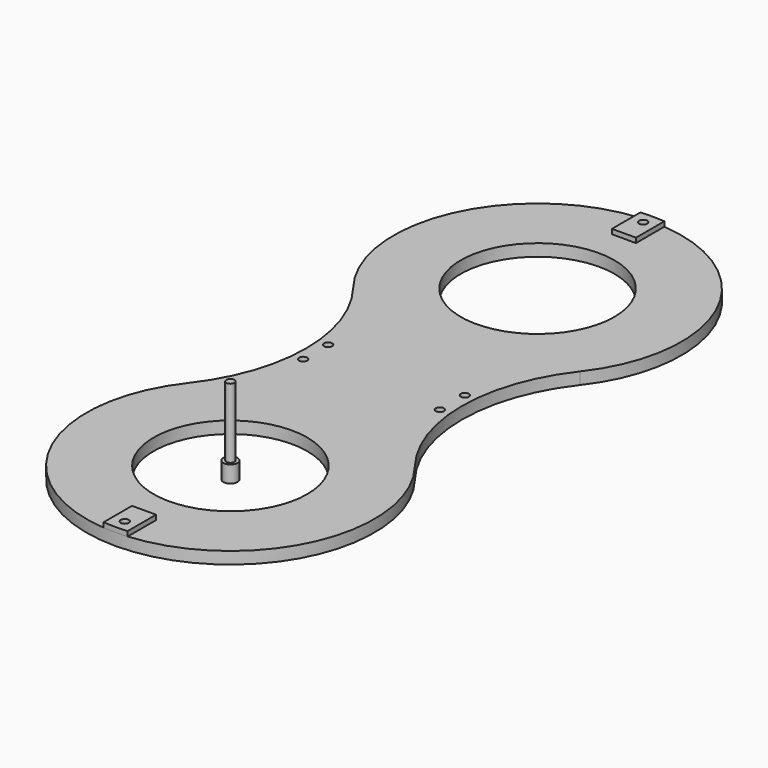
from build123d import *

# Parameters (mm, degrees)
CYLINDER_R               = 2.95
CYLINDER_DEPTH           = 7
CYLINDER001_R            = 1.7
CYLINDER001_DEPTH        = 30
PAD023_DEPTH             = 2
CLONE185_PLACEMENT_ANGLE = 180
SKETCH031_R              = 32
PAD022_DEPTH             = 5


with BuildPart() as m3bolthead:
    # Cylinder → Cylinder (new body)
    with BuildSketch(Plane.XY):
        Circle(CYLINDER_R)
    extrude(amount=CYLINDER_DEPTH)


with BuildPart() as m3bolt:
    # Cylinder001 → Cylinder001 (new body)
    with BuildSketch(Plane.XY.offset(6)):
        Circle(CYLINDER001_R)
    extrude(amount=CYLINDER001_DEPTH)

    # Fusion: union M3BoltHead
    add(m3bolthead.part)


with BuildPart() as obj1:
    # Sketch032 → Pad023 (new body)
    with BuildSketch(Plane.XY):
        with BuildLine():
            ThreePointArc((5, 59.791304), (0, 60), (-5, 59.791304))
            Line((-5, 45), (-5, 59.791304))
            Line((5, 45), (-5, 45))
            Line((5, 59.791304), (5, 45))
        make_face()
    extrude(amount=PAD023_DEPTH)


with BuildPart() as clone_of_m3bolt057:
    # Clone191 base: copy of M3Bolt
    add(m3bolt.part)


with BuildPart() as clone_of_m3bolt057_1:
    # Clone191 placement: moved
    add(clone_of_m3bolt057.part.moved(Location((28.5, 86.5, -31))))


with BuildPart() as clone_of_m3bolt056:
    # Clone190 base: copy of M3Bolt
    add(m3bolt.part)


with BuildPart() as clone_of_m3bolt056_1:
    # Clone190 placement: moved
    add(clone_of_m3bolt056.part.moved(Location((-28.5, 73.5, -31))))


with BuildPart() as clone_of_m3bolt058:
    # Clone192 base: copy of M3Bolt
    add(m3bolt.part)


with BuildPart() as clone_of_m3bolt058_1:
    # Clone192 placement: moved
    add(clone_of_m3bolt058.part.moved(Location((28.5, 73.5, -31))))


with BuildPart() as clone_of_m3bolt053:
    # Clone186 base: copy of M3Bolt
    add(m3bolt.part)


with BuildPart() as clone_of_m3bolt053_1:
    # Clone186 placement: moved
    add(clone_of_m3bolt053.part.moved(Location((0, 215, -4))))


with BuildPart() as clone_of_m3bolt054:
    # Clone187 base: copy of M3Bolt
    add(m3bolt.part)


with BuildPart() as clone_of_m3bolt054_1:
    # Clone187 placement: moved
    add(clone_of_m3bolt054.part.moved(Location((0, -55, -4))))


with BuildPart() as fusion070:
    # Clone189 base: copy of M3Bolt
    add(m3bolt.part)


with BuildPart() as fusion070_1:
    # Clone189 placement: moved
    add(fusion070.part.moved(Location((-28.5, 86.5, -31))))

    # Fusion070: union Clone of M3Bolt057, Clone of M3Bolt056, Clone of M3Bolt058, Clone of M3Bolt053, Clone of M3Bolt054
    add(clone_of_m3bolt057_1.part)
    add(clone_of_m3bolt056_1.part)
    add(clone_of_m3bolt058_1.part)
    add(clone_of_m3bolt053_1.part)
    add(clone_of_m3bolt054_1.part)


with BuildPart() as obj2:
    # Clone185 base: copy of obj1
    add(obj1.part)


with BuildPart() as obj2_1:
    # Clone185 placement: moved
    add(obj2.part.moved(Location((0, 0, 5))).rotate(Axis((0, 0, 5), (0, 0, 1)), CLONE185_PLACEMENT_ANGLE))


with BuildPart() as obj3:
    # Clone184 base: copy of obj1
    add(obj1.part)


with BuildPart() as obj3_1:
    # Clone184 placement: moved
    add(obj3.part.moved(Location((0, 160, 5))))


with BuildPart() as obj4:
    # Sketch031 → Pad022 (new body)
    with BuildSketch(Plane.XY):
        with BuildLine():
            ThreePointArc((-47.293593, 36.92311), (-1.1e-05, -60), (47.293607, 36.923092))
            ThreePointArc((47.293593, 123.07689), (32.469508, 79.999989), (47.293607, 36.923092))
            ThreePointArc((47.293593, 123.07689), (0, 220), (-47.293593, 123.07689))
            ThreePointArc((-47.293593, 36.92311), (-32.469508, 80), (-47.293593, 123.07689))
        make_face()
        Circle(SKETCH031_R, mode=Mode.SUBTRACT)
        with Locations((0, 160)):
            Circle(SKETCH031_R, mode=Mode.SUBTRACT)
    extrude(amount=PAD022_DEPTH)

    # Fusion067: union obj2, obj3
    add(obj2_1.part)
    add(obj3_1.part)

    # Cut059: cut Fusion070
    add(fusion070_1.part, mode=Mode.SUBTRACT)


solid = Compound([m3bolt.part, obj1.part, obj4.part])
